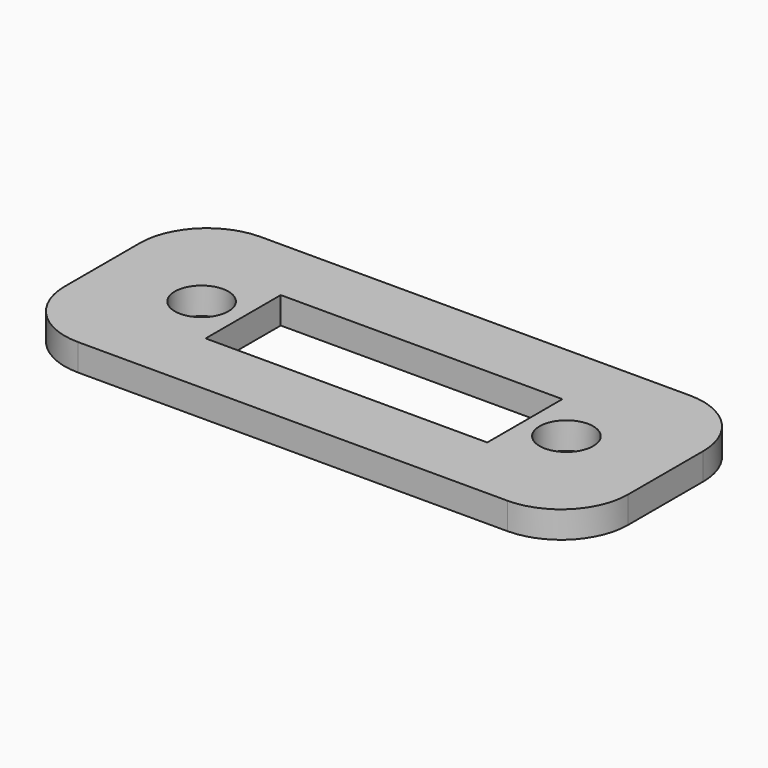
from build123d import *

# Parameters (mm, degrees)
F0_W     = 5.5
F0_H     = 7
F0_R     = 2
F1_DEPTH = 2
F2_R     = 5


with BuildPart() as f1:
    # F0 (on Top) → F1 (new body)
    with BuildSketch(Plane.XY):
        Polygon((21, 8.5), (10.5, 8.5), (-10.5, 8.5), (-21, 8.5), (-21, -8.5), (-10.5, -8.5), (10.5, -8.5), (21, -8.5), align=None)
        Polygon((16, -3.5), (10.5, -3.5), (-10.5, -3.5), (-16, -3.5), (-16, 3.5), (-10.5, 3.5), (10.5, 3.5), (16, 3.5), align=None, mode=Mode.SUBTRACT)
        with Locations((-13.25, 0)):
            Rectangle(F0_W, F0_H)
        with Locations((-13.6, 0)):
            Circle(F0_R, mode=Mode.SUBTRACT)
        with Locations((13.25, 0)):
            Rectangle(F0_W, F0_H)
        with Locations((13.6, 0)):
            Circle(F0_R, mode=Mode.SUBTRACT)
    extrude(amount=F1_DEPTH)

    # F2
    f2_edges = [f1.edges().sort_by_distance(p)[0] for p in [
        (-21, 8.5, 1),
        (-21, -8.5, 1),
        (21, -8.5, 1),
        (21, 8.5, 1),
    ]]
    fillet(f2_edges, radius=F2_R)


solid = f1.part
